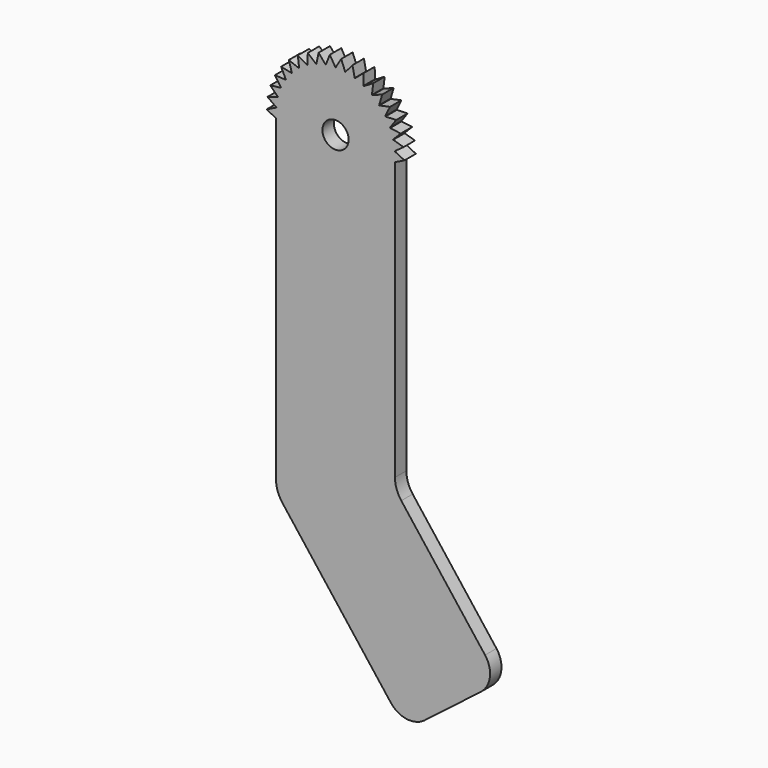
from build123d import *

# Parameters (mm, degrees)
F0_R     = 1.5
F1_DEPTH = 3
F3_R     = 2.75
F4_DEPTH = 381
F6_DEPTH = 381
F7_R     = 5.08
F8_R     = 5.08


with BuildPart() as f1:
    # F0 (on Front) → F1 (new body)
    with BuildSketch(Plane.XZ):
        with BuildLine():
            ThreePointArc((12.4599357944, -1), (12.4899799325, -0.5004011242), (12.5, 0))
            ThreePointArc((12.5, 0), (12.4899799325, 0.5004011242), (12.4599357944, 1))
            Line((12.4599357944, 1), (12.4599357944, -1))
        make_face()
        with BuildLine():
            Line((12.5, -0.9803613016), (12.5, 0))
            ThreePointArc((12.5, 0), (12.4899799325, -0.5004011242), (12.4599357944, -1))
            Line((12.4599357944, -1), (12.5, -0.9803613016))
        make_face()
        Polygon((14.5, 0), (12.5, 0), (12.5, -0.9803613016), align=None)
        with BuildLine():
            ThreePointArc((12.4599357944, 1), (12.4899799325, 0.5004011242), (12.5, 0))
            Line((12.5, 0), (14.5, 0))
            Line((14.5, 0), (12.4599357944, 1))
        make_face()
        with BuildLine():
            Line((12.4599357944, -1), (12.4599357944, 1))
            ThreePointArc((12.4599357944, 1), (12.4573061626, 1.0322418184), (12.4545931007, 1.0644767236))
            Line((12.4545931007, 1.0644767236), (12.1254039202, 3.0371993304))
            ThreePointArc((12.1254039202, 3.0371993304), (12.1175033242, 3.0685685893), (12.109521574, 3.0999172971))
            Line((12.109521574, 3.0999172971), (11.4601226356, 4.9915517805))
            ThreePointArc((11.4601226356, 4.9915517805), (11.4471665832, 5.0211928082), (11.4341338659, 5.0508002075))
            Line((11.4341338659, 5.0508002075), (10.4822390798, 6.8097477099))
            ThreePointArc((10.4822390798, 6.8097477099), (10.4645809783, 6.8368519765), (10.4468527925, 6.8639104548))
            Line((10.4468527925, 6.8639104548), (9.2184273671, 8.4421914736))
            ThreePointArc((9.2184273671, 8.4421914736), (9.1965488834, 8.4660196453), (9.1746088078, 8.4897911177))
            Line((9.1746088078, 8.4897911177), (7.7031609865, 9.844354261))
            ThreePointArc((7.7031609865, 9.844354261), (7.6776589086, 9.8642563675), (7.6521054113, 9.8840924102))
            Line((7.6521054113, 9.8840924102), (5.9777724548, 10.9779887265))
            ThreePointArc((5.9777724548, 10.9779887265), (5.949342413, 10.9934218901), (5.9208725267, 11.0087814277))
            Line((5.9208725267, 11.0087814277), (4.0893258734, 11.812172277))
            ThreePointArc((4.0893258734, 11.812172277), (4.0587433651, 11.8227155213), (4.0281336742, 11.8331795855))
            Line((4.0281336742, 11.8331795855), (2.0893331423, 12.3241505598))
            ThreePointArc((2.0893331423, 12.3241505598), (2.0574323785, 12.3295162925), (2.0255178355, 12.3347994511))
            Line((2.0255178355, 12.3347994511), (0.0323488495, 12.499958142))
            ThreePointArc((0.0323488495, 12.499958142), (0, 12.5), (-0.0323488495, 12.499958142))
            Line((-0.0323488495, 12.499958142), (-2.0255178355, 12.3347994511))
            ThreePointArc((-2.0255178355, 12.3347994511), (-2.0574323785, 12.3295162925), (-2.0893331423, 12.3241505598))
            Line((-2.0893331423, 12.3241505598), (-4.0281336742, 11.8331795855))
            ThreePointArc((-4.0281336742, 11.8331795855), (-4.0587433651, 11.8227155213), (-4.0893258734, 11.812172277))
            Line((-4.0893258734, 11.812172277), (-5.9208725267, 11.0087814277))
            ThreePointArc((-5.9208725267, 11.0087814277), (-5.949342413, 10.9934218901), (-5.9777724548, 10.9779887265))
            Line((-5.9777724548, 10.9779887265), (-7.6521054113, 9.8840924102))
            ThreePointArc((-7.6521054113, 9.8840924102), (-7.6776589086, 9.8642563675), (-7.7031609865, 9.844354261))
            Line((-7.7031609865, 9.844354261), (-9.1746088078, 8.4897911177))
            ThreePointArc((-9.1746088078, 8.4897911177), (-9.1965488834, 8.4660196453), (-9.2184273671, 8.4421914736))
            Line((-9.2184273671, 8.4421914736), (-10.4468527925, 6.8639104548))
            ThreePointArc((-10.4468527925, 6.8639104548), (-10.4645809783, 6.8368519765), (-10.4822390798, 6.8097477099))
            Line((-10.4822390798, 6.8097477099), (-11.4341338659, 5.0508002075))
            ThreePointArc((-11.4341338659, 5.0508002075), (-11.4471665832, 5.0211928082), (-11.4601226356, 4.9915517805))
            Line((-11.4601226356, 4.9915517805), (-12.109521574, 3.0999172971))
            ThreePointArc((-12.109521574, 3.0999172971), (-12.1175033242, 3.0685685893), (-12.1254039202, 3.0371993304))
            Line((-12.1254039202, 3.0371993304), (-12.4545931007, 1.0644767236))
            ThreePointArc((-12.4545931007, 1.0644767236), (-12.4573061626, 1.0322418184), (-12.4599357944, 1))
            Line((-12.4599357944, 1), (-12.4599357944, -1))
            ThreePointArc((-12.4599357944, -1), (0, -12.5), (12.4599357944, -1))
        make_face()
        Circle(F0_R, mode=Mode.SUBTRACT)
        with BuildLine():
            Line((12.5, -0.9803613016), (12.4599357944, -1))
            ThreePointArc((12.4599357944, -1), (0, -12.5), (-12.4599357944, -1))
            Line((-12.4599357944, -1), (-12.5, -0.9803613016))
            Line((-12.5, -0.9803613016), (-12.5, -67.8362422814))
            ThreePointArc((-12.5, -67.8362422814), (-12.1606330639, -69.8843609721), (-11.1788062454, -71.7135619415))
            Line((-11.1788062454, -71.7135619415), (26.3647868293, -120.4068531523))
            ThreePointArc((26.3647868293, -120.4068531523), (30.5793691017, -122.827115514), (35.2709127347, -121.5583397375))
            Line((35.2709127347, -121.5583397375), (45.0117500289, -114.0479410258))
            ThreePointArc((45.0117500289, -114.0479410258), (47.4320123906, -109.8333587534), (46.1632366141, -105.1418151204))
            Line((46.1632366141, -105.1418151204), (13.8211937546, -63.194830766))
            ThreePointArc((13.8211937546, -63.194830766), (12.8393669361, -61.3656297965), (12.5, -59.3175111059))
            Line((12.5, -59.3175111059), (12.5, -0.9803613016))
        make_face()
        with BuildLine():
            Line((12.1254039202, 3.0371993304), (12.4545931007, 1.0644767236))
            ThreePointArc((12.4545931007, 1.0644767236), (12.4019962037, 1.5622068245), (12.3295162925, 2.0574323785))
            ThreePointArc((12.3295162925, 2.0574323785), (12.2372695677, 2.5493594347), (12.1254039202, 3.0371993304))
        make_face()
        with BuildLine():
            ThreePointArc((12.3295162925, 2.0574323785), (12.4019962037, 1.5622068245), (12.4545931007, 1.0644767236))
            Line((12.4545931007, 1.0644767236), (14.3022388993, 2.3866215591))
            Line((14.3022388993, 2.3866215591), (12.3295162925, 2.0574323785))
        make_face()
        with BuildLine():
            Line((-12.5, -0.9803613016), (-12.4599357944, -1))
            ThreePointArc((-12.4599357944, -1), (-12.4899799325, -0.5004011242), (-12.5, 0))
            Line((-12.5, 0), (-12.5, -0.9803613016))
        make_face()
        with BuildLine():
            ThreePointArc((-12.5, 0), (-12.4899799325, -0.5004011242), (-12.4599357944, -1))
            Line((-12.4599357944, -1), (-12.4599357944, 1))
            ThreePointArc((-12.4599357944, 1), (-12.4899799325, 0.5004011242), (-12.5, 0))
        make_face()
        with BuildLine():
            ThreePointArc((12.1254039202, 3.0371993304), (12.2372695677, 2.5493594347), (12.3295162925, 2.0574323785))
            Line((12.3295162925, 2.0574323785), (14.3022388993, 2.3866215591))
            Line((14.3022388993, 2.3866215591), (12.1254039202, 3.0371993304))
        make_face()
        with BuildLine():
            Line((-14.5, 0), (-12.5, 0))
            ThreePointArc((-12.5, 0), (-12.4899799325, 0.5004011242), (-12.4599357944, 1))
            Line((-12.4599357944, 1), (-14.5, 0))
        make_face()
        Polygon((-12.5, -0.9803613016), (-12.5, 0), (-14.5, 0), align=None)
        with BuildLine():
            Line((11.4601226356, 4.9915517805), (12.109521574, 3.0999172971))
            ThreePointArc((12.109521574, 3.0999172971), (11.9757183481, 3.5822018434), (11.8227155213, 4.0587433651))
            ThreePointArc((11.8227155213, 4.0587433651), (11.6507583892, 4.5287778655), (11.4601226356, 4.9915517805))
        make_face()
        with BuildLine():
            ThreePointArc((11.8227155213, 4.0587433651), (11.9757183481, 3.5822018434), (12.109521574, 3.0999172971))
            Line((12.109521574, 3.0999172971), (13.7143500047, 4.7081423035))
            Line((13.7143500047, 4.7081423035), (11.8227155213, 4.0587433651))
        make_face()
        with BuildLine():
            Line((-14.3022388993, 2.3866215591), (-12.4545931007, 1.0644767236))
            ThreePointArc((-12.4545931007, 1.0644767236), (-12.4019962037, 1.5622068245), (-12.3295162925, 2.0574323785))
            Line((-12.3295162925, 2.0574323785), (-14.3022388993, 2.3866215591))
        make_face()
        with BuildLine():
            ThreePointArc((-12.3295162925, 2.0574323785), (-12.4019962037, 1.5622068245), (-12.4545931007, 1.0644767236))
            Line((-12.4545931007, 1.0644767236), (-12.1254039202, 3.0371993304))
            ThreePointArc((-12.1254039202, 3.0371993304), (-12.2372695677, 2.5493594347), (-12.3295162925, 2.0574323785))
        make_face()
        with BuildLine():
            ThreePointArc((11.4601226356, 4.9915517805), (11.6507583892, 4.5287778655), (11.8227155213, 4.0587433651))
            Line((11.8227155213, 4.0587433651), (13.7143500047, 4.7081423035))
            Line((13.7143500047, 4.7081423035), (11.4601226356, 4.9915517805))
        make_face()
        with BuildLine():
            Line((-14.3022388993, 2.3866215591), (-12.3295162925, 2.0574323785))
            ThreePointArc((-12.3295162925, 2.0574323785), (-12.2372695677, 2.5493594347), (-12.1254039202, 3.0371993304))
            Line((-12.1254039202, 3.0371993304), (-14.3022388993, 2.3866215591))
        make_face()
        with BuildLine():
            Line((10.4822390798, 6.8097477099), (11.4341338659, 5.0508002075))
            ThreePointArc((11.4341338659, 5.0508002075), (11.2227741143, 5.5044837341), (10.9934218901, 5.949342413))
            ThreePointArc((10.9934218901, 5.949342413), (10.7464448932, 6.3846630418), (10.4822390798, 6.8097477099))
        make_face()
        with BuildLine():
            ThreePointArc((10.9934218901, 5.949342413), (11.2227741143, 5.5044837341), (11.4341338659, 5.0508002075))
            Line((11.4341338659, 5.0508002075), (12.7523693925, 6.901237199))
            Line((12.7523693925, 6.901237199), (10.9934218901, 5.949342413))
        make_face()
        with BuildLine():
            Line((-13.7143500047, 4.7081423035), (-12.109521574, 3.0999172971))
            ThreePointArc((-12.109521574, 3.0999172971), (-11.9757183481, 3.5822018434), (-11.8227155213, 4.0587433651))
            Line((-11.8227155213, 4.0587433651), (-13.7143500047, 4.7081423035))
        make_face()
        with BuildLine():
            ThreePointArc((-11.8227155213, 4.0587433651), (-11.9757183481, 3.5822018434), (-12.109521574, 3.0999172971))
            Line((-12.109521574, 3.0999172971), (-11.4601226356, 4.9915517805))
            ThreePointArc((-11.4601226356, 4.9915517805), (-11.6507583892, 4.5287778655), (-11.8227155213, 4.0587433651))
        make_face()
        with BuildLine():
            ThreePointArc((10.4822390798, 6.8097477099), (10.7464448932, 6.3846630418), (10.9934218901, 5.949342413))
            Line((10.9934218901, 5.949342413), (12.7523693925, 6.901237199))
            Line((12.7523693925, 6.901237199), (10.4822390798, 6.8097477099))
        make_face()
        with BuildLine():
            Line((-13.7143500047, 4.7081423035), (-11.8227155213, 4.0587433651))
            ThreePointArc((-11.8227155213, 4.0587433651), (-11.6507583892, 4.5287778655), (-11.4601226356, 4.9915517805))
            Line((-11.4601226356, 4.9915517805), (-13.7143500047, 4.7081423035))
        make_face()
        with BuildLine():
            Line((9.2184273671, 8.4421914736), (10.4468527925, 6.8639104548))
            ThreePointArc((10.4468527925, 6.8639104548), (10.1637018583, 7.2766176577), (9.8642563675, 7.6776589086))
            ThreePointArc((9.8642563675, 7.6776589086), (9.5489963943, 8.0663912539), (9.2184273671, 8.4421914736))
        make_face()
        with BuildLine():
            ThreePointArc((9.8642563675, 7.6776589086), (10.1637018583, 7.2766176577), (10.4468527925, 6.8639104548))
            Line((10.4468527925, 6.8639104548), (11.4425373862, 8.906084334))
            Line((11.4425373862, 8.906084334), (9.8642563675, 7.6776589086))
        make_face()
        with BuildLine():
            Line((-12.7523693925, 6.901237199), (-11.4341338659, 5.0508002075))
            ThreePointArc((-11.4341338659, 5.0508002075), (-11.2227741143, 5.5044837341), (-10.9934218901, 5.949342413))
            Line((-10.9934218901, 5.949342413), (-12.7523693925, 6.901237199))
        make_face()
        with BuildLine():
            ThreePointArc((-10.9934218901, 5.949342413), (-11.2227741143, 5.5044837341), (-11.4341338659, 5.0508002075))
            Line((-11.4341338659, 5.0508002075), (-10.4822390798, 6.8097477099))
            ThreePointArc((-10.4822390798, 6.8097477099), (-10.7464448932, 6.3846630418), (-10.9934218901, 5.949342413))
        make_face()
        with BuildLine():
            ThreePointArc((9.2184273671, 8.4421914736), (9.5489963943, 8.0663912539), (9.8642563675, 7.6776589086))
            Line((9.8642563675, 7.6776589086), (11.4425373862, 8.906084334))
            Line((11.4425373862, 8.906084334), (9.2184273671, 8.4421914736))
        make_face()
        with BuildLine():
            Line((-12.7523693925, 6.901237199), (-10.9934218901, 5.949342413))
            ThreePointArc((-10.9934218901, 5.949342413), (-10.7464448932, 6.3846630418), (-10.4822390798, 6.8097477099))
            Line((-10.4822390798, 6.8097477099), (-12.7523693925, 6.901237199))
        make_face()
        with BuildLine():
            Line((7.7031609865, 9.844354261), (9.1746088078, 8.4897911177))
            ThreePointArc((9.1746088078, 8.4897911177), (8.8273903103, 8.8502644203), (8.4660196453, 9.1965488834))
            ThreePointArc((8.4660196453, 9.1965488834), (8.0910761662, 9.5280893401), (7.7031609865, 9.844354261))
        make_face()
        with BuildLine():
            ThreePointArc((8.4660196453, 9.1965488834), (8.8273903103, 8.8502644203), (9.1746088078, 8.4897911177))
            Line((9.1746088078, 8.4897911177), (9.8205827886, 10.6679967048))
            Line((9.8205827886, 10.6679967048), (8.4660196453, 9.1965488834))
        make_face()
        with BuildLine():
            Line((-11.4425373862, 8.906084334), (-10.4468527925, 6.8639104548))
            ThreePointArc((-10.4468527925, 6.8639104548), (-10.1637018583, 7.2766176577), (-9.8642563675, 7.6776589086))
            Line((-9.8642563675, 7.6776589086), (-11.4425373862, 8.906084334))
        make_face()
        with BuildLine():
            ThreePointArc((-9.8642563675, 7.6776589086), (-10.1637018583, 7.2766176577), (-10.4468527925, 6.8639104548))
            Line((-10.4468527925, 6.8639104548), (-9.2184273671, 8.4421914736))
            ThreePointArc((-9.2184273671, 8.4421914736), (-9.5489963943, 8.0663912539), (-9.8642563675, 7.6776589086))
        make_face()
        with BuildLine():
            ThreePointArc((7.7031609865, 9.844354261), (8.0910761662, 9.5280893401), (8.4660196453, 9.1965488834))
            Line((8.4660196453, 9.1965488834), (9.8205827886, 10.6679967048))
            Line((9.8205827886, 10.6679967048), (7.7031609865, 9.844354261))
        make_face()
        with BuildLine():
            Line((-11.4425373862, 8.906084334), (-9.8642563675, 7.6776589086))
            ThreePointArc((-9.8642563675, 7.6776589086), (-9.5489963943, 8.0663912539), (-9.2184273671, 8.4421914736))
            Line((-9.2184273671, 8.4421914736), (-11.4425373862, 8.906084334))
        make_face()
        with BuildLine():
            Line((5.9777724548, 10.9779887265), (7.6521054113, 9.8840924102))
            ThreePointArc((7.6521054113, 9.8840924102), (7.250290566, 10.1824990405), (6.8368519765, 10.4645809783))
            ThreePointArc((6.8368519765, 10.4645809783), (6.4124524722, 10.7298859869), (5.9777724548, 10.9779887265))
        make_face()
        with BuildLine():
            ThreePointArc((6.8368519765, 10.4645809783), (7.250290566, 10.1824990405), (7.6521054113, 9.8840924102))
            Line((7.6521054113, 9.8840924102), (7.9307482928, 12.1389139348))
            Line((7.9307482928, 12.1389139348), (6.8368519765, 10.4645809783))
        make_face()
        with BuildLine():
            Line((-9.8205827886, 10.6679967048), (-9.1746088078, 8.4897911177))
            ThreePointArc((-9.1746088078, 8.4897911177), (-8.8273903103, 8.8502644203), (-8.4660196453, 9.1965488834))
            Line((-8.4660196453, 9.1965488834), (-9.8205827886, 10.6679967048))
        make_face()
        with BuildLine():
            ThreePointArc((-8.4660196453, 9.1965488834), (-8.8273903103, 8.8502644203), (-9.1746088078, 8.4897911177))
            Line((-9.1746088078, 8.4897911177), (-7.7031609865, 9.844354261))
            ThreePointArc((-7.7031609865, 9.844354261), (-8.0910761662, 9.5280893401), (-8.4660196453, 9.1965488834))
        make_face()
        with BuildLine():
            ThreePointArc((5.9777724548, 10.9779887265), (6.4124524722, 10.7298859869), (6.8368519765, 10.4645809783))
            Line((6.8368519765, 10.4645809783), (7.9307482928, 12.1389139348))
            Line((7.9307482928, 12.1389139348), (5.9777724548, 10.9779887265))
        make_face()
        with BuildLine():
            Line((-9.8205827886, 10.6679967048), (-8.4660196453, 9.1965488834))
            ThreePointArc((-8.4660196453, 9.1965488834), (-8.0910761662, 9.5280893401), (-7.7031609865, 9.844354261))
            Line((-7.7031609865, 9.844354261), (-9.8205827886, 10.6679967048))
        make_face()
        with BuildLine():
            Line((4.0893258734, 11.812172277), (5.9208725267, 11.0087814277))
            ThreePointArc((5.9208725267, 11.0087814277), (5.4754217951, 11.2369816306), (5.0211928082, 11.4471665832))
            ThreePointArc((5.0211928082, 11.4471665832), (4.5589137907, 11.6389993148), (4.0893258734, 11.812172277))
        make_face()
        with BuildLine():
            ThreePointArc((5.0211928082, 11.4471665832), (5.4754217951, 11.2369816306), (5.9208725267, 11.0087814277))
            Line((5.9208725267, 11.0087814277), (5.8245836575, 13.2787132365))
            Line((5.8245836575, 13.2787132365), (5.0211928082, 11.4471665832))
        make_face()
        with BuildLine():
            Line((-7.9307482928, 12.1389139348), (-7.6521054113, 9.8840924102))
            ThreePointArc((-7.6521054113, 9.8840924102), (-7.250290566, 10.1824990405), (-6.8368519765, 10.4645809783))
            Line((-6.8368519765, 10.4645809783), (-7.9307482928, 12.1389139348))
        make_face()
        with BuildLine():
            ThreePointArc((-6.8368519765, 10.4645809783), (-7.250290566, 10.1824990405), (-7.6521054113, 9.8840924102))
            Line((-7.6521054113, 9.8840924102), (-5.9777724548, 10.9779887265))
            ThreePointArc((-5.9777724548, 10.9779887265), (-6.4124524722, 10.7298859869), (-6.8368519765, 10.4645809783))
        make_face()
        with BuildLine():
            ThreePointArc((4.0893258734, 11.812172277), (4.5589137907, 11.6389993148), (5.0211928082, 11.4471665832))
            Line((5.0211928082, 11.4471665832), (5.8245836575, 13.2787132365))
            Line((5.8245836575, 13.2787132365), (4.0893258734, 11.812172277))
        make_face()
        with BuildLine():
            Line((-7.9307482928, 12.1389139348), (-6.8368519765, 10.4645809783))
            ThreePointArc((-6.8368519765, 10.4645809783), (-6.4124524722, 10.7298859869), (-5.9777724548, 10.9779887265))
            Line((-5.9777724548, 10.9779887265), (-7.9307482928, 12.1389139348))
        make_face()
        with BuildLine():
            Line((2.0893331423, 12.3241505598), (4.0281336742, 11.8331795855))
            ThreePointArc((4.0281336742, 11.8331795855), (3.551197791, 11.9849486544), (3.0685685893, 12.1175033242))
            ThreePointArc((3.0685685893, 12.1175033242), (2.5810198252, 12.2306310819), (2.0893331423, 12.3241505598))
        make_face()
        with BuildLine():
            ThreePointArc((3.0685685893, 12.1175033242), (3.551197791, 11.9849486544), (4.0281336742, 11.8331795855))
            Line((4.0281336742, 11.8331795855), (3.5595395635, 14.0563038561))
            Line((3.5595395635, 14.0563038561), (3.0685685893, 12.1175033242))
        make_face()
        with BuildLine():
            Line((-5.8245836575, 13.2787132365), (-5.9208725267, 11.0087814277))
            ThreePointArc((-5.9208725267, 11.0087814277), (-5.4754217951, 11.2369816306), (-5.0211928082, 11.4471665832))
            Line((-5.0211928082, 11.4471665832), (-5.8245836575, 13.2787132365))
        make_face()
        with BuildLine():
            ThreePointArc((-5.0211928082, 11.4471665832), (-5.4754217951, 11.2369816306), (-5.9208725267, 11.0087814277))
            Line((-5.9208725267, 11.0087814277), (-4.0893258734, 11.812172277))
            ThreePointArc((-4.0893258734, 11.812172277), (-4.5589137907, 11.6389993148), (-5.0211928082, 11.4471665832))
        make_face()
        with BuildLine():
            ThreePointArc((2.0893331423, 12.3241505598), (2.5810198252, 12.2306310819), (3.0685685893, 12.1175033242))
            Line((3.0685685893, 12.1175033242), (3.5595395635, 14.0563038561))
            Line((3.5595395635, 14.0563038561), (2.0893331423, 12.3241505598))
        make_face()
        with BuildLine():
            Line((-5.8245836575, 13.2787132365), (-5.0211928082, 11.4471665832))
            ThreePointArc((-5.0211928082, 11.4471665832), (-4.5589137907, 11.6389993148), (-4.0893258734, 11.812172277))
            Line((-4.0893258734, 11.812172277), (-5.8245836575, 13.2787132365))
        make_face()
        with BuildLine():
            Line((0.0323488495, 12.499958142), (2.0255178355, 12.3347994511))
            ThreePointArc((2.0255178355, 12.3347994511), (1.5301063685, 12.4059975214), (1.0322418184, 12.4573061626))
            ThreePointArc((1.0322418184, 12.4573061626), (0.5327223671, 12.488643116), (0.0323488495, 12.499958142))
        make_face()
        with BuildLine():
            ThreePointArc((1.0322418184, 12.4573061626), (1.5301063685, 12.4059975214), (2.0255178355, 12.3347994511))
            Line((2.0255178355, 12.3347994511), (1.1974005093, 14.4504751486))
            Line((1.1974005093, 14.4504751486), (1.0322418184, 12.4573061626))
        make_face()
        with BuildLine():
            Line((-3.5595395635, 14.0563038561), (-4.0281336742, 11.8331795855))
            ThreePointArc((-4.0281336742, 11.8331795855), (-3.551197791, 11.9849486544), (-3.0685685893, 12.1175033242))
            Line((-3.0685685893, 12.1175033242), (-3.5595395635, 14.0563038561))
        make_face()
        with BuildLine():
            ThreePointArc((-3.0685685893, 12.1175033242), (-3.551197791, 11.9849486544), (-4.0281336742, 11.8331795855))
            Line((-4.0281336742, 11.8331795855), (-2.0893331423, 12.3241505598))
            ThreePointArc((-2.0893331423, 12.3241505598), (-2.5810198252, 12.2306310819), (-3.0685685893, 12.1175033242))
        make_face()
        with BuildLine():
            ThreePointArc((0.0323488495, 12.499958142), (0.5327223671, 12.488643116), (1.0322418184, 12.4573061626))
            Line((1.0322418184, 12.4573061626), (1.1974005093, 14.4504751486))
            Line((1.1974005093, 14.4504751486), (0.0323488495, 12.499958142))
        make_face()
        with BuildLine():
            Line((-3.5595395635, 14.0563038561), (-3.0685685893, 12.1175033242))
            ThreePointArc((-3.0685685893, 12.1175033242), (-2.5810198252, 12.2306310819), (-2.0893331423, 12.3241505598))
            Line((-2.0893331423, 12.3241505598), (-3.5595395635, 14.0563038561))
        make_face()
        with BuildLine():
            Line((-2.0255178355, 12.3347994511), (-0.0323488495, 12.499958142))
            ThreePointArc((-0.0323488495, 12.499958142), (-0.5327223671, 12.488643116), (-1.0322418184, 12.4573061626))
            ThreePointArc((-1.0322418184, 12.4573061626), (-1.5301063685, 12.4059975214), (-2.0255178355, 12.3347994511))
        make_face()
        with BuildLine():
            ThreePointArc((-1.0322418184, 12.4573061626), (-0.5327223671, 12.488643116), (-0.0323488495, 12.499958142))
            Line((-0.0323488495, 12.499958142), (-1.1974005093, 14.4504751486))
            Line((-1.1974005093, 14.4504751486), (-1.0322418184, 12.4573061626))
        make_face()
        with BuildLine():
            Line((-1.1974005093, 14.4504751486), (-2.0255178355, 12.3347994511))
            ThreePointArc((-2.0255178355, 12.3347994511), (-1.5301063685, 12.4059975214), (-1.0322418184, 12.4573061626))
            Line((-1.0322418184, 12.4573061626), (-1.1974005093, 14.4504751486))
        make_face()
        Circle(F0_R)
    extrude(amount=F1_DEPTH)

    # F3 (on face) → F4 (cut, symmetric)
    with BuildSketch(Plane.XZ.offset(3)):
        Circle(F3_R)
    extrude(amount=F4_DEPTH, both=True, mode=Mode.SUBTRACT)

    # F5 (on face) → F6 (cut, symmetric)
    with BuildSketch(Plane.XZ.offset(3)):
        Polygon((39.3883599903, -86.3104796004), (11.1765899037, -108.0623716928), (26.385564357, -126.6003996134), (60.5728030205, -109.7657829523), align=None)
    extrude(amount=F6_DEPTH, both=True, mode=Mode.SUBTRACT)

    # F7
    f7_edges = [f1.edges().sort_by_distance(p)[0] for p in [
        (14.732828, -1.5, -105.320434),
    ]]
    fillet(f7_edges, radius=F7_R)

    # F8
    f8_edges = [f1.edges().sort_by_distance(p)[0] for p in [
        (34.531278, -1.5, -90.055396),
    ]]
    fillet(f8_edges, radius=F8_R)


solid = f1.part
